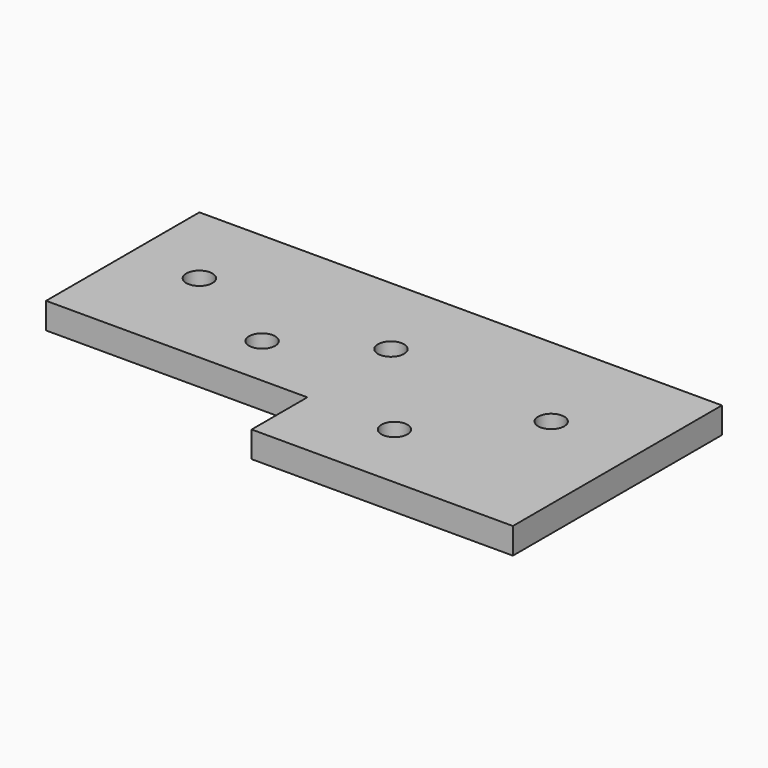
from build123d import *

# Parameters (mm, degrees)
F0_R     = 1.5
F1_DEPTH = 3


with BuildPart() as f1:
    # F0 (on Top) → F1 (new body)
    with BuildSketch(Plane.XY):
        Polygon((30, 15), (-30, 15), (-30, -7), (0, -7), (0, -15), (30, -15), align=None)
        with Locations((-10, -1)):
            Circle(F0_R, mode=Mode.SUBTRACT)
        with Locations((10, -7)):
            Circle(F0_R, mode=Mode.SUBTRACT)
        with Locations((-22, 5)):
            Circle(F0_R, mode=Mode.SUBTRACT)
        with Locations((0, 5)):
            Circle(F0_R, mode=Mode.SUBTRACT)
        with Locations((20, 3)):
            Circle(F0_R, mode=Mode.SUBTRACT)
    extrude(amount=F1_DEPTH)


solid = f1.part
